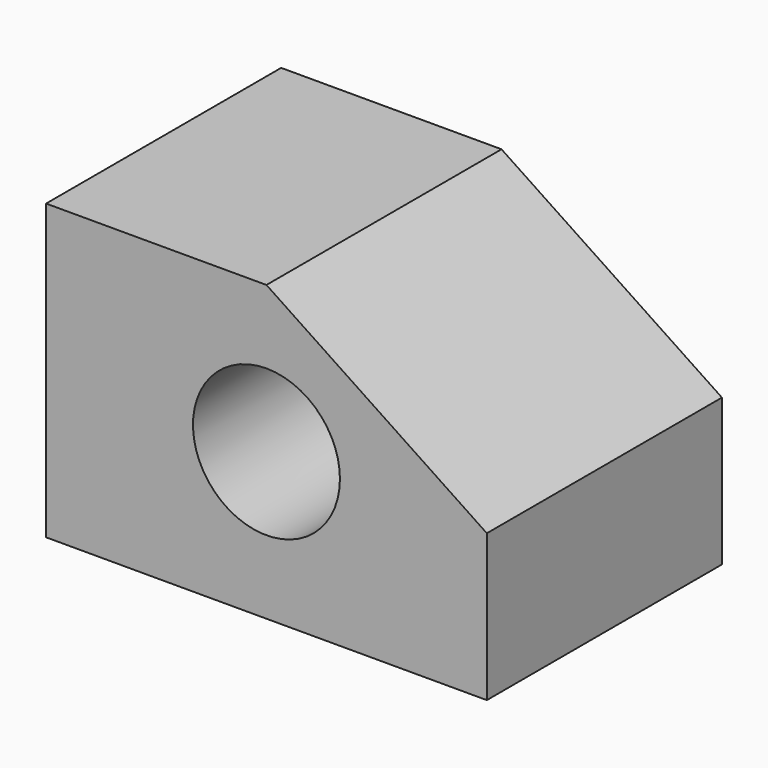
from build123d import *

# Parameters (mm, degrees)
F1_DEPTH = 50.8


with BuildPart() as f1:
    # F0 (on Front) → F1 (new body)
    with BuildSketch(Plane.XZ):
        Polygon((-61.553363, 22.693443), (-61.553363, -28.106557), (14.646637, -28.106557), (14.646637, -2.706557), (-23.453363, 22.693443), align=None)
        with BuildLine():
            ThreePointArc((-10.753363, -2.706557), (-32.433619, -11.686813), (-23.453363, 9.993443))
            ThreePointArc((-23.453363, 9.993443), (-14.473107, 6.273699), (-10.753363, -2.706557))
        make_face(mode=Mode.SUBTRACT)
    extrude(amount=F1_DEPTH)


solid = f1.part
